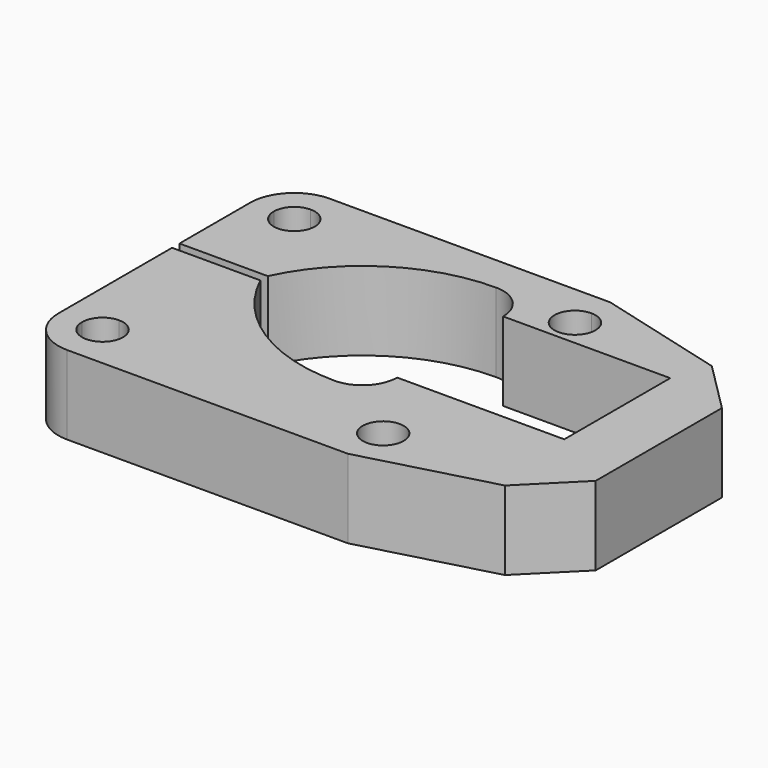
from build123d import *

# Parameters (mm, degrees)
F1_DEPTH = 25


with BuildPart() as f1:
    # F0 (on Top) → F1 (new body)
    with BuildSketch(Plane.XY):
        with BuildLine():
            Line((-75, 0), (-82.5, 0))
            ThreePointArc((-82.5, 0), (-84.4038059223, -4.5961940777), (-89, -6.5))
            Line((-89, -6.5), (-89, -28.0067149212))
            Line((-89, -28.0067149212), (-75, -28.0067149212))
            Line((-75, -28.0067149212), (-75, 0))
        make_face()
        with BuildLine():
            ThreePointArc((-89, 6.5), (-84.4038059223, 4.5961940777), (-82.5, 0))
            Line((-82.5, 0), (-75, 0))
            Line((-75, 0), (-75, -28.0067149212))
            ThreePointArc((-75, -28.0067149212), (-55.4426891496, -5.7574102297), (-27, 2.5210800245))
            ThreePointArc((-27, 2.5210800245), (-19.2218254069, -0.7007453824), (-16, -8.4789199755))
            Line((-16, -8.4789199755), (0, -8.4789199755))
            Line((0, -8.4789199755), (37, -8.4789199755))
            Line((37, -8.4789199755), (37, -38))
            Line((37, -38), (37, -50.4789199755))
            Line((37, -50.4789199755), (0, -50.4789199755))
            Line((0, -50.4789199755), (-16, -50.4789199755))
            ThreePointArc((-16, -50.4789199755), (-19.2218254069, -58.2570945685), (-27, -61.4789199755))
            ThreePointArc((-27, -61.4789199755), (-55.4426891496, -53.2004297212), (-75, -30.9511250297))
            Line((-75, -30.9511250297), (-75, -76))
            ThreePointArc((-75, -76), (-79.1005050634, -85.8994949366), (-89, -90))
            Line((-89, -90), (0, -90))
            Line((0, -90), (41, -79.0140831103))
            Line((41, -79.0140831103), (57, -63.0140831103))
            Line((57, -63.0140831103), (57, -12.9859168897))
            Line((57, -12.9859168897), (41, 3.0140831103))
            Line((41, 3.0140831103), (0, 14))
            Line((0, 14), (-89, 14))
            Line((-89, 14), (-89, 6.5))
        make_face()
        with BuildLine():
            ThreePointArc((6.5, -76), (4.5961940777, -80.5961940777), (0, -82.5))
            ThreePointArc((0, -82.5), (-4.5961940777, -71.4038059223), (6.5, -76))
        make_face(mode=Mode.SUBTRACT)
        with BuildLine():
            ThreePointArc((6.5, 0), (-4.5961940777, -4.5961940777), (0, 6.5))
            ThreePointArc((0, 6.5), (4.5961940777, 4.5961940777), (6.5, 0))
        make_face(mode=Mode.SUBTRACT)
        with BuildLine():
            Line((-82.5, -76), (-75, -76))
            ThreePointArc((-75, -76), (-79.1005050634, -66.1005050634), (-89, -62))
            Line((-89, -62), (-89, -69.5))
            ThreePointArc((-89, -69.5), (-84.4038059223, -71.4038059223), (-82.5, -76))
        make_face()
        with BuildLine():
            Line((-89, -82.5), (-89, -90))
            ThreePointArc((-89, -90), (-79.1005050634, -85.8994949366), (-75, -76))
            Line((-75, -76), (-82.5, -76))
            ThreePointArc((-82.5, -76), (-84.4038059223, -80.5961940777), (-89, -82.5))
        make_face()
        with BuildLine():
            ThreePointArc((-89, -62), (-79.1005050634, -66.1005050634), (-75, -76))
            Line((-75, -76), (-75, -30.9511250297))
            Line((-75, -30.9511250297), (-89, -30.9511250297))
            Line((-89, -30.9511250297), (-89, -62))
        make_face()
        with BuildLine():
            Line((-103, -30.9511250297), (-103, -76))
            Line((-103, -76), (-95.5, -76))
            ThreePointArc((-95.5, -76), (-93.5961940777, -71.4038059223), (-89, -69.5))
            Line((-89, -69.5), (-89, -62))
            Line((-89, -62), (-89, -30.9511250297))
            Line((-89, -30.9511250297), (-103, -30.9511250297))
        make_face()
        with BuildLine():
            ThreePointArc((-103, -76), (-98.8994949366, -85.8994949366), (-89, -90))
            Line((-89, -90), (-89, -82.5))
            ThreePointArc((-89, -82.5), (-93.5961940777, -80.5961940777), (-95.5, -76))
            Line((-95.5, -76), (-103, -76))
        make_face()
        with BuildLine():
            Line((-89, -28.0067149212), (-89, -6.5))
            ThreePointArc((-89, -6.5), (-93.5961940777, -4.5961940777), (-95.5, 0))
            Line((-95.5, 0), (-103, 0))
            Line((-103, 0), (-103, -28.0067149212))
            Line((-103, -28.0067149212), (-89, -28.0067149212))
        make_face()
        with BuildLine():
            ThreePointArc((-95.5, 0), (-93.5961940777, 4.5961940777), (-89, 6.5))
            Line((-89, 6.5), (-89, 14))
            ThreePointArc((-89, 14), (-98.8994949366, 9.8994949366), (-103, 0))
            Line((-103, 0), (-95.5, 0))
        make_face()
    extrude(amount=F1_DEPTH)


solid = f1.part
